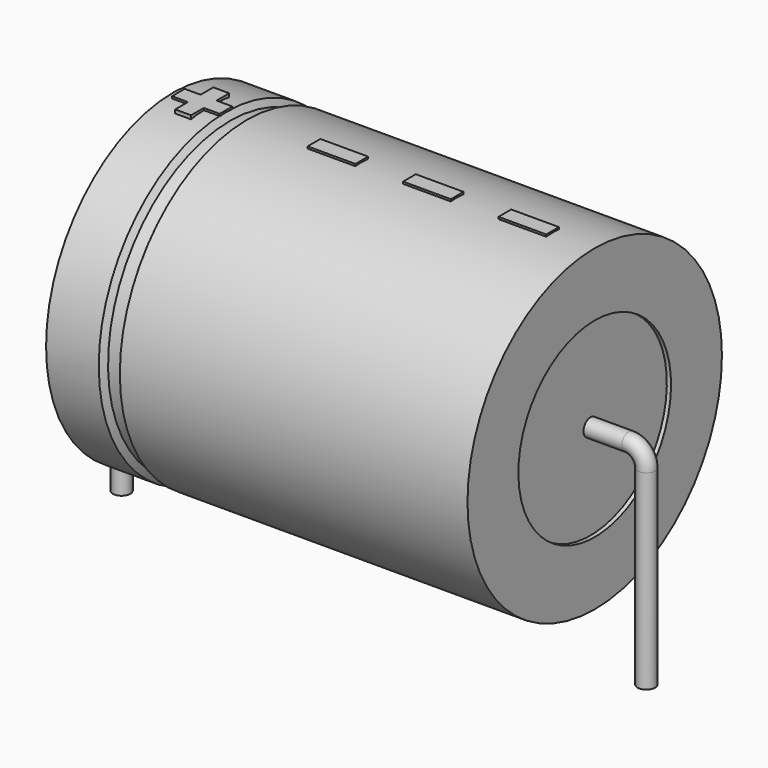
from build123d import *

# Parameters (mm, degrees)
SKETCH_R    = 0.55
SKETCH004_W = 3
SKETCH004_H = 1
PAD_DEPTH   = 10.1


with BuildPart() as sweep_body:
    # Sweep: sweep along a path in Sketch001
    with BuildLine(Plane.XZ) as sweep_path:
        Line((0, -3), (0, 9))
        ThreePointArc((0, 9), (0.322186, 9.777821), (1.10001, 10.1))
        Line((1.10001, 10.1), (31.9, 10.1))
        ThreePointArc((31.9, 10.1), (32.677817, 9.777817), (33, 9))
        Line((33, 9), (33, -3))
    # Sketch → Sweep (sweep)
    with BuildSketch(Plane.XY.offset(-2)):
        Circle(SKETCH_R)
    sweep(path=sweep_path.line)


with BuildPart() as revolution:
    # Sketch002 → Revolution (revolve)
    with BuildSketch(Plane.XZ):
        Polygon((3.25, 20.1), (3.25, 16.1), (29.75, 16.1), (29.75, 20.1), (7.8875, 20.1), (7.6225, 19.7), (6.8275, 19.7), (6.5625, 20.1), align=None)
    revolve(axis=Axis((6.97588, 0, 10.1), (1, 0, 0)))


with BuildPart() as revolution001:
    # Sketch003 → Revolution001 (revolve)
    with BuildSketch(Plane.XZ):
        Polygon((3.515, 19.7), (4.84, 19.7), (4.84, 11.1), (28.16, 11.1), (28.16, 19.7), (29.485, 19.7), (29.485, 10.1), (3.515, 10.1), align=None)
    revolve(axis=Axis((6.97588, 0, 10.1), (1, 0, 0)))


with BuildPart() as pad:
    # Sketch004 → Pad (new body)
    with BuildSketch(Plane.XY.offset(10.1)):
        with Locations((25.6, 0)):
            Rectangle(SKETCH004_W, SKETCH004_H)
        with Locations((19.6, 0)):
            Rectangle(SKETCH004_W, SKETCH004_H)
        with Locations((13.6, 0)):
            Rectangle(SKETCH004_W, SKETCH004_H)
        Polygon((4.568, 0.5), (3.568, 0.5), (3.568, -0.5), (4.568, -0.5), (4.568, -1.5), (5.568, -1.5), (5.568, -0.5), (6.568, -0.5), (6.568, 0.5), (5.568, 0.5), (5.568, 1.5), (4.568, 1.5), align=None)
    extrude(amount=PAD_DEPTH)


solid = Compound([sweep_body.part, revolution.part, revolution001.part, pad.part])
